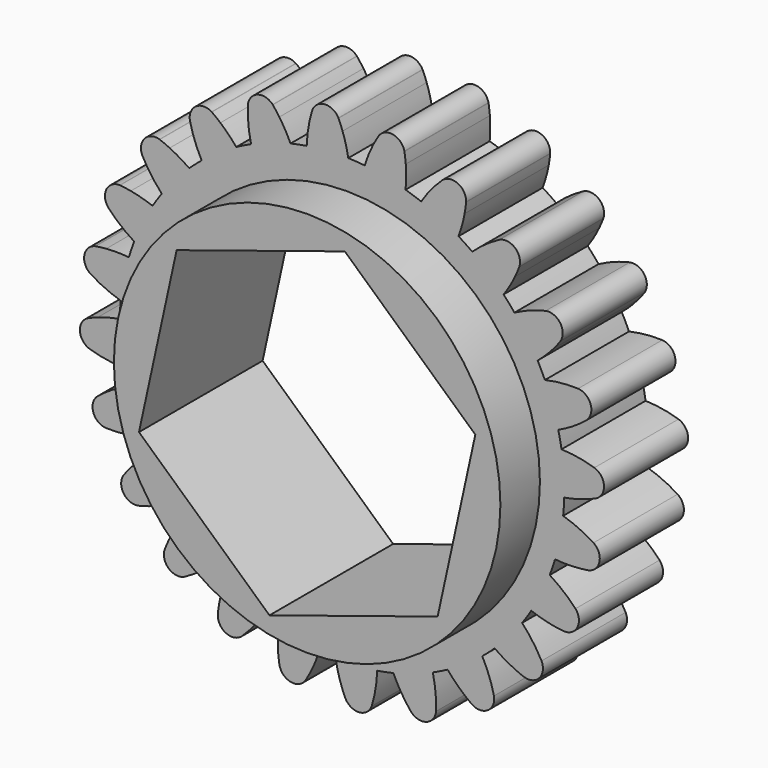
from build123d import *

# Parameters (mm, degrees)
F0_R     = 46.686845
F1_DEPTH = 25.4
F2_COUNT = 24
F3_DEPTH = 37.338
F4_DEPTH = 103.378


with BuildPart() as f1:
    # F0 (on Front) → F1 (new body)
    with BuildSketch(Plane.XZ):
        with BuildLine():
            ThreePointArc((-8.518584, 53.041301), (-34.844792, -40.887484), (53.721, 0))
            ThreePointArc((53.721, 0), (38.520982, 37.444356), (1.522427, 53.699423))
            ThreePointArc((1.522427, 53.699423), (-3.513522, 53.605979), (-8.518584, 53.041301))
        make_face()
        with Locations((1.14295, -0.110875)):
            Circle(F0_R, mode=Mode.SUBTRACT)
        with BuildLine():
            ThreePointArc((-8.518584, 53.041301), (-3.513522, 53.605979), (1.522427, 53.699423))
            ThreePointArc((1.522427, 53.699423), (0.954584, 56.378745), (0.150311, 58.996827))
            ThreePointArc((0.150311, 58.996827), (-0.313884, 60.215685), (-0.829408, 61.413737))
            ThreePointArc((-0.829408, 61.413737), (-0.845927, 61.44562), (-0.862497, 61.477476))
            ThreePointArc((-0.862497, 61.477476), (-4.185229, 63.305218), (-7.193789, 60.996593))
            ThreePointArc((-7.193789, 60.996593), (-8.118438, 57.06262), (-8.518584, 53.041301))
        make_face()
    extrude(amount=F1_DEPTH)



with BuildPart() as f2_1:
    # F2: instance of F1
    add(f1.part.rotate(Axis((0, 0, 0), (0, 1, 0)), 1 * 360 / F2_COUNT))


with BuildPart() as f2_2:
    # F2: instance of F1
    add(f1.part.rotate(Axis((0, 0, 0), (0, 1, 0)), 2 * 360 / F2_COUNT))


with BuildPart() as f2_3:
    # F2: instance of F1
    add(f1.part.rotate(Axis((0, 0, 0), (0, 1, 0)), 3 * 360 / F2_COUNT))


with BuildPart() as f2_4:
    # F2: instance of F1
    add(f1.part.rotate(Axis((0, 0, 0), (0, 1, 0)), 4 * 360 / F2_COUNT))


with BuildPart() as f2_5:
    # F2: instance of F1
    add(f1.part.rotate(Axis((0, 0, 0), (0, 1, 0)), 5 * 360 / F2_COUNT))


with BuildPart() as f2_6:
    # F2: instance of F1
    add(f1.part.rotate(Axis((0, 0, 0), (0, 1, 0)), 6 * 360 / F2_COUNT))


with BuildPart() as f2_7:
    # F2: instance of F1
    add(f1.part.rotate(Axis((0, 0, 0), (0, 1, 0)), 7 * 360 / F2_COUNT))


with BuildPart() as f2_8:
    # F2: instance of F1
    add(f1.part.rotate(Axis((0, 0, 0), (0, 1, 0)), 8 * 360 / F2_COUNT))


with BuildPart() as f2_9:
    # F2: instance of F1
    add(f1.part.rotate(Axis((0, 0, 0), (0, 1, 0)), 9 * 360 / F2_COUNT))


with BuildPart() as f2_10:
    # F2: instance of F1
    add(f1.part.rotate(Axis((0, 0, 0), (0, 1, 0)), 10 * 360 / F2_COUNT))


with BuildPart() as f2_11:
    # F2: instance of F1
    add(f1.part.rotate(Axis((0, 0, 0), (0, 1, 0)), 11 * 360 / F2_COUNT))


with BuildPart() as f2_12:
    # F2: instance of F1
    add(f1.part.rotate(Axis((0, 0, 0), (0, 1, 0)), 12 * 360 / F2_COUNT))


with BuildPart() as f2_13:
    # F2: instance of F1
    add(f1.part.rotate(Axis((0, 0, 0), (0, 1, 0)), 13 * 360 / F2_COUNT))


with BuildPart() as f2_14:
    # F2: instance of F1
    add(f1.part.rotate(Axis((0, 0, 0), (0, 1, 0)), 14 * 360 / F2_COUNT))


with BuildPart() as f2_15:
    # F2: instance of F1
    add(f1.part.rotate(Axis((0, 0, 0), (0, 1, 0)), 15 * 360 / F2_COUNT))


with BuildPart() as f2_16:
    # F2: instance of F1
    add(f1.part.rotate(Axis((0, 0, 0), (0, 1, 0)), 16 * 360 / F2_COUNT))


with BuildPart() as f2_17:
    # F2: instance of F1
    add(f1.part.rotate(Axis((0, 0, 0), (0, 1, 0)), 17 * 360 / F2_COUNT))


with BuildPart() as f2_18:
    # F2: instance of F1
    add(f1.part.rotate(Axis((0, 0, 0), (0, 1, 0)), 18 * 360 / F2_COUNT))


with BuildPart() as f2_19:
    # F2: instance of F1
    add(f1.part.rotate(Axis((0, 0, 0), (0, 1, 0)), 19 * 360 / F2_COUNT))


with BuildPart() as f2_20:
    # F2: instance of F1
    add(f1.part.rotate(Axis((0, 0, 0), (0, 1, 0)), 20 * 360 / F2_COUNT))


with BuildPart() as f2_21:
    # F2: instance of F1
    add(f1.part.rotate(Axis((0, 0, 0), (0, 1, 0)), 21 * 360 / F2_COUNT))


with BuildPart() as f2_22:
    # F2: instance of F1
    add(f1.part.rotate(Axis((0, 0, 0), (0, 1, 0)), 22 * 360 / F2_COUNT))


with BuildPart() as f2_23:
    # F2: instance of F1
    add(f1.part.rotate(Axis((0, 0, 0), (0, 1, 0)), 23 * 360 / F2_COUNT))


with BuildPart() as f1_1:
    add(f1.part)

    add(f2_1.part)  # F3 merges F2_1

    add(f2_2.part)  # F3 merges F2_2

    add(f2_3.part)  # F3 merges F2_3

    add(f2_4.part)  # F3 merges F2_4

    add(f2_5.part)  # F3 merges F2_5

    add(f2_6.part)  # F3 merges F2_6

    add(f2_7.part)  # F3 merges F2_7

    add(f2_8.part)  # F3 merges F2_8

    add(f2_9.part)  # F3 merges F2_9

    add(f2_10.part)  # F3 merges F2_10

    add(f2_11.part)  # F3 merges F2_11

    add(f2_12.part)  # F3 merges F2_12

    add(f2_13.part)  # F3 merges F2_13

    add(f2_14.part)  # F3 merges F2_14

    add(f2_15.part)  # F3 merges F2_15

    add(f2_16.part)  # F3 merges F2_16

    add(f2_17.part)  # F3 merges F2_17

    add(f2_18.part)  # F3 merges F2_18

    add(f2_19.part)  # F3 merges F2_19

    add(f2_20.part)  # F3 merges F2_20

    add(f2_21.part)  # F3 merges F2_21

    add(f2_22.part)  # F3 merges F2_22

    add(f2_23.part)  # F3 merges F2_23
    # F0 (on Front) → F3 (join)
    with BuildSketch(Plane.XZ):
        Polygon((10.244682, 41.548079), (-30.383897, 28.600933), (-39.485629, -13.058022), (-7.958781, -41.76983), (32.669798, -28.822683), (41.771529, 12.836271), align=None)
        with Locations((1.14295, -0.110875)):
            Circle(F0_R)
        Polygon((-39.485629, -13.058022), (-30.383897, 28.600933), (10.244682, 41.548079), (41.771529, 12.836271), (32.669798, -28.822683), (-7.958781, -41.76983), align=None, mode=Mode.SUBTRACT)
    extrude(amount=F3_DEPTH)

    # F0 (on Front) → F4 (cut)
    with BuildSketch(Plane.XZ):
        Polygon((10.244682, 41.548079), (-30.383897, 28.600933), (-39.485629, -13.058022), (-7.958781, -41.76983), (32.669798, -28.822683), (41.771529, 12.836271), align=None)
    extrude(amount=F4_DEPTH, mode=Mode.SUBTRACT)


solid = f1_1.part
